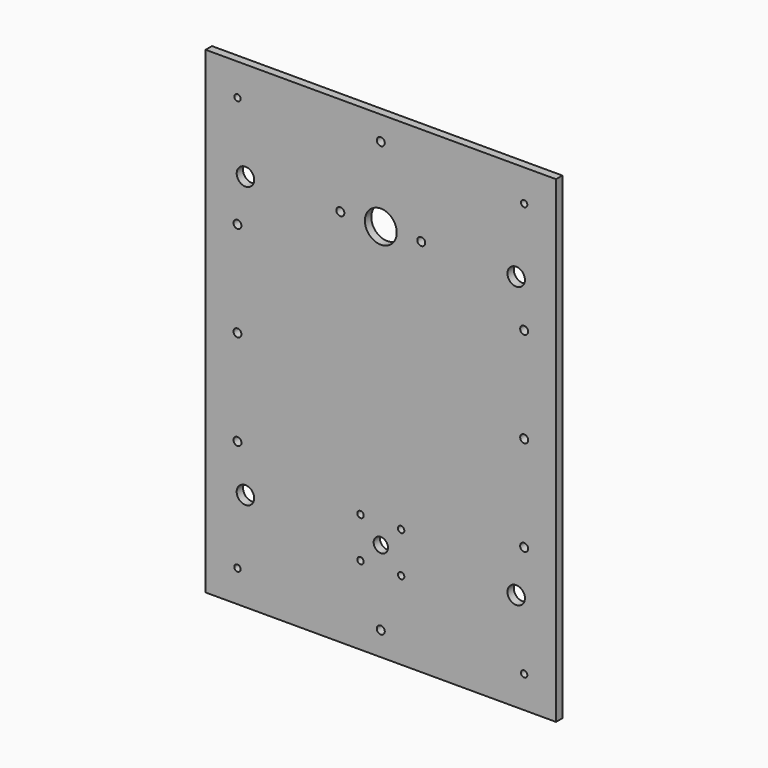
from build123d import *

# Parameters (mm, degrees)
SKETCH_W   = 220
SKETCH_H   = 300
SKETCH_R   = 10
SKETCH_R_2 = 2.5
SKETCH_R_3 = 5.5
SKETCH_R_4 = 2
SKETCH_R_5 = 4.5
PAD_DEPTH  = 5


with BuildPart() as part:
    # Sketch → Pad (new body)
    with BuildSketch(Plane.XZ):
        Rectangle(SKETCH_W, SKETCH_H)
        with Locations((0, 88)):
            Circle(SKETCH_R, mode=Mode.SUBTRACT)
        with Locations((25.4, 88)):
            Circle(SKETCH_R_2, mode=Mode.SUBTRACT)
        with Locations((-25.4, 88)):
            Circle(SKETCH_R_2, mode=Mode.SUBTRACT)
        with Locations((85, 88)):
            Circle(SKETCH_R_3, mode=Mode.SUBTRACT)
        with Locations((-85, 88)):
            Circle(SKETCH_R_3, mode=Mode.SUBTRACT)
        with Locations((-85, -88)):
            Circle(SKETCH_R_3, mode=Mode.SUBTRACT)
        with Locations((85, -88)):
            Circle(SKETCH_R_3, mode=Mode.SUBTRACT)
        with Locations((-90, 130)):
            Circle(SKETCH_R_4, mode=Mode.SUBTRACT)
        with Locations((90, 130)):
            Circle(SKETCH_R_4, mode=Mode.SUBTRACT)
        with Locations((-90, -130)):
            Circle(SKETCH_R_4, mode=Mode.SUBTRACT)
        with Locations((90, -130)):
            Circle(SKETCH_R_4, mode=Mode.SUBTRACT)
        with Locations((0, 135)):
            Circle(SKETCH_R_2, mode=Mode.SUBTRACT)
        with Locations((0, -135)):
            Circle(SKETCH_R_2, mode=Mode.SUBTRACT)
        with Locations((90, 0)):
            Circle(SKETCH_R_2, mode=Mode.SUBTRACT)
        with Locations((-90, 0)):
            Circle(SKETCH_R_2, mode=Mode.SUBTRACT)
        with Locations((-90, -60)):
            Circle(SKETCH_R_2, mode=Mode.SUBTRACT)
        with Locations((-90, 60)):
            Circle(SKETCH_R_2, mode=Mode.SUBTRACT)
        with Locations((90, 60)):
            Circle(SKETCH_R_2, mode=Mode.SUBTRACT)
        with Locations((90, -60)):
            Circle(SKETCH_R_2, mode=Mode.SUBTRACT)
        with Locations((0, -88)):
            Circle(SKETCH_R_5, mode=Mode.SUBTRACT)
        with Locations((12.75, -75.25)):
            Circle(SKETCH_R_4, mode=Mode.SUBTRACT)
        with Locations((-12.75, -75.25)):
            Circle(SKETCH_R_4, mode=Mode.SUBTRACT)
        with Locations((-12.75, -100.75)):
            Circle(SKETCH_R_4, mode=Mode.SUBTRACT)
        with Locations((12.75, -100.75)):
            Circle(SKETCH_R_4, mode=Mode.SUBTRACT)
    extrude(amount=PAD_DEPTH)


solid = part.part
